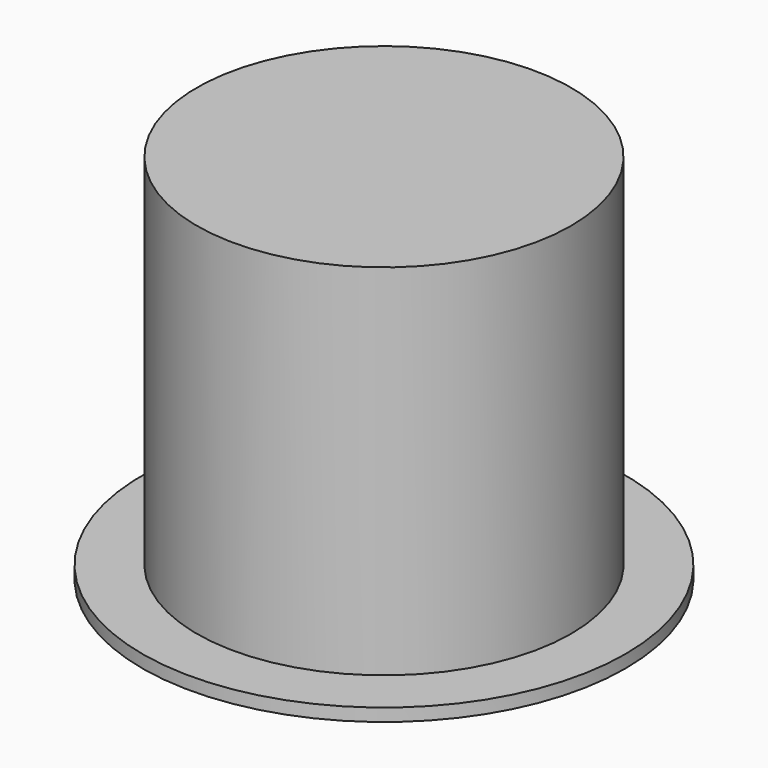
from build123d import *

# Parameters (mm, degrees)
F0_R     = 43.410456
F1_DEPTH = 2.286
F2_R     = 33.613067
F3_DEPTH = 64.516
F4_R     = 24.771227
F5_DEPTH = 55.88


with BuildPart() as f1:
    # F0 (on Top) → F1 (new body)
    with BuildSketch(Plane.XY):
        Circle(F0_R)
    extrude(amount=F1_DEPTH)

    # F2 (on face) → F3 (join)
    with BuildSketch(Plane.XY.offset(2.286)):
        Circle(F2_R)
    extrude(amount=F3_DEPTH)

    # F4 (on Top) → F5 (cut)
    with BuildSketch(Plane.XY):
        Circle(F4_R)
    extrude(amount=F5_DEPTH, mode=Mode.SUBTRACT)


solid = f1.part
